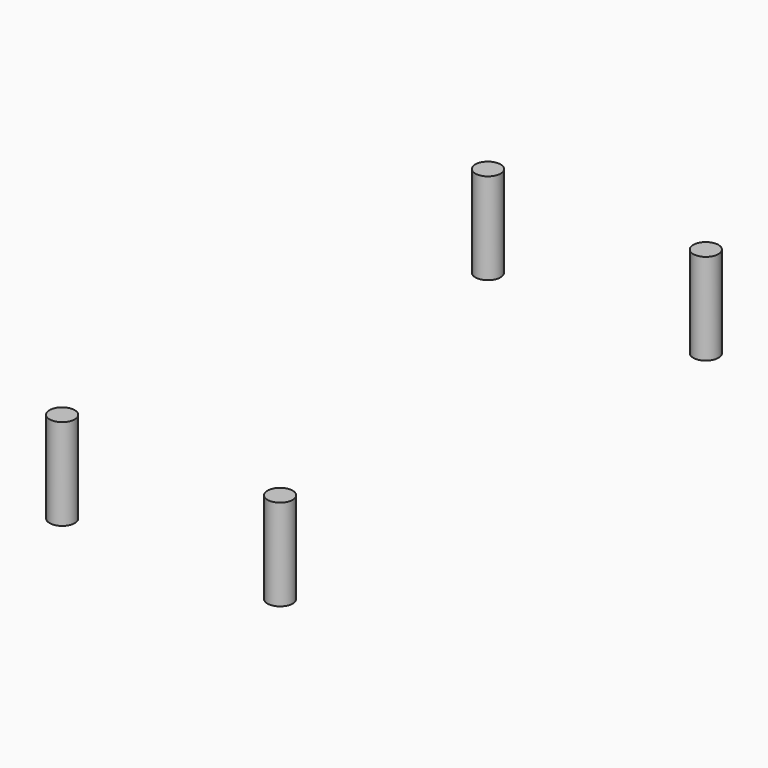
from build123d import *

# Parameters (mm, degrees)
CYLINDER002_R     = 1.375
CYLINDER002_DEPTH = 10
CYLINDER003_R     = 1.375
CYLINDER003_DEPTH = 10
CYLINDER004_R     = 1.375
CYLINDER004_DEPTH = 10
CYLINDER001_R     = 1.375
CYLINDER001_DEPTH = 10


with BuildPart() as cylinder002:
    # Cylinder002 → Cylinder002 (new body)
    with BuildSketch(Plane(origin=(32.6, 43.5, -3), x_dir=(1, 0, 0), z_dir=(0, 0, 1))):
        Circle(CYLINDER002_R)
    extrude(amount=CYLINDER002_DEPTH)


with BuildPart() as cylinder003:
    # Cylinder003 → Cylinder003 (new body)
    with BuildSketch(Plane(origin=(32.6, -14.75, -3), x_dir=(1, 0, 0), z_dir=(0, 0, 1))):
        Circle(CYLINDER003_R)
    extrude(amount=CYLINDER003_DEPTH)


with BuildPart() as cylinder004:
    # Cylinder004 → Cylinder004 (new body)
    with BuildSketch(Plane(origin=(8.75, -14.75, -3), x_dir=(1, 0, 0), z_dir=(0, 0, 1))):
        Circle(CYLINDER004_R)
    extrude(amount=CYLINDER004_DEPTH)


with BuildPart() as hole_cuts:
    # Cylinder001 → Cylinder001 (new body)
    with BuildSketch(Plane(origin=(8.75, 43.5, -3), x_dir=(1, 0, 0), z_dir=(0, 0, 1))):
        Circle(CYLINDER001_R)
    extrude(amount=CYLINDER001_DEPTH)

    # Fusion002003002: union Cylinder002, Cylinder003, Cylinder004
    add(cylinder002.part)
    add(cylinder003.part)
    add(cylinder004.part)


solid = hole_cuts.part
